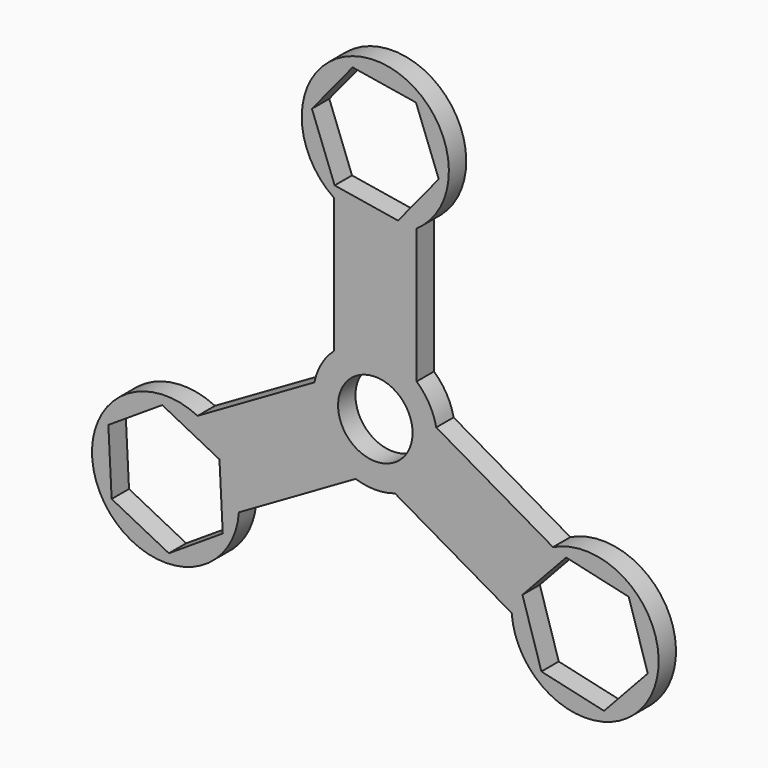
from build123d import *

# Parameters (mm, degrees)
F0_R     = 10.9
F1_DEPTH = 6.35


with BuildPart() as f1:
    # F0 (on Front) → F1 (new body)
    with BuildSketch(Plane.XZ):
        with BuildLine():
            ThreePointArc((-12.084012, 13.616355), (0, 18.205177), (12.084012, 13.616355))
            Line((12.084012, 13.616355), (12.084012, 53.072922))
            ThreePointArc((12.084012, 53.072922), (0, 92.421745), (-12.084012, 53.072922))
            Line((-12.084012, 53.072922), (-12.084012, 13.616355))
        make_face()
        Polygon((6.647039, 53.306134), (-11.906144, 56.34248), (-18.553183, 73.928181), (-6.647039, 88.477536), (11.906144, 85.44119), (18.553183, 67.855489), align=None, mode=Mode.SUBTRACT)
        with BuildLine():
            ThreePointArc((17.834115, 3.656884), (18.112174, 1.837831), (18.205177, 0))
            ThreePointArc((18.205177, 0), (14.766687, -10.647695), (5.750103, -17.273239))
            Line((5.750103, -17.273239), (39.920493, -37.001522))
            ThreePointArc((39.920493, -37.001522), (80.039579, -46.210872), (52.004505, -16.0714))
            Line((52.004505, -16.0714), (17.834115, 3.656884))
        make_face()
        Polygon((79.723727, -39.625135), (66.93962, -53.409423), (48.610023, -49.230206), (43.064533, -31.2667), (55.84864, -17.482412), (74.178237, -21.661629), align=None, mode=Mode.SUBTRACT)
        with BuildLine():
            Line((-39.920493, -37.001522), (-5.750103, -17.273239))
            ThreePointArc((-5.750103, -17.273239), (-15.766146, -9.102588), (-17.834115, 3.656884))
            Line((-17.834115, 3.656884), (-52.004505, -16.0714))
            ThreePointArc((-52.004505, -16.0714), (-80.039579, -46.210872), (-39.920493, -37.001522))
        make_face()
        Polygon((-44.650204, -43.994658), (-60.425593, -54.220952), (-77.169519, -45.672212), (-78.138056, -26.897177), (-62.362667, -16.670883), (-45.618741, -25.219623), align=None, mode=Mode.SUBTRACT)
        with BuildLine():
            ThreePointArc((5.750103, -17.273239), (14.766687, -10.647695), (18.205177, 0))
            ThreePointArc((18.205177, 0), (18.112174, 1.837831), (17.834115, 3.656884))
            ThreePointArc((17.834115, 3.656884), (15.766146, 9.102588), (12.084012, 13.616355))
            ThreePointArc((12.084012, 13.616355), (0, 18.205177), (-12.084012, 13.616355))
            ThreePointArc((-12.084012, 13.616355), (-15.766146, 9.102588), (-17.834115, 3.656884))
            ThreePointArc((-17.834115, 3.656884), (-15.766146, -9.102588), (-5.750103, -17.273239))
            ThreePointArc((-5.750103, -17.273239), (0, -18.205177), (5.750103, -17.273239))
        make_face()
        Circle(F0_R, mode=Mode.SUBTRACT)
    extrude(amount=F1_DEPTH)


solid = f1.part
